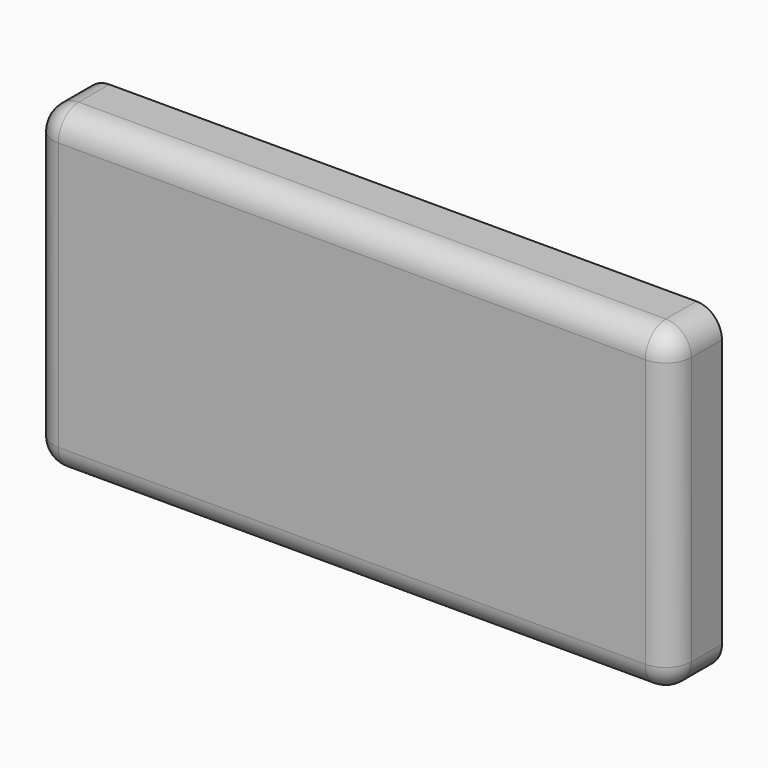
from build123d import *

# Parameters (mm, degrees)
F0_W     = 127
F0_H     = 63.5
F1_DEPTH = 12.7
F2_DEPTH = 12.7
F3_R     = 5.08
F4_T     = -2.54


with BuildPart() as f1:
    # F0 (on Front) → F1 (new body)
    with BuildSketch(Plane.XZ):
        Rectangle(F0_W, F0_H)
    extrude(amount=F1_DEPTH)

    # F0 (on Front) → F2 (join)
    with BuildSketch(Plane.XZ):
        Rectangle(F0_W, F0_H)
    extrude(amount=F2_DEPTH)

    # F3
    f3_edges = [f1.edges().sort_by_distance(p)[0] for p in [
        (-63.5, -12.7, 0),
        (0, -12.7, -31.75),
        (63.5, -12.7, 0),
        (0, -12.7, 31.75),
        (63.5, -6.35, 31.75),
        (63.5, -6.35, -31.75),
        (-63.5, -6.35, -31.75),
        (-63.5, -6.35, 31.75),
    ]]
    fillet(f3_edges, radius=F3_R)

    # F4
    f4_openings = [f1.faces().sort_by_distance(p)[0] for p in [
        (0, 0, 0),
    ]]
    offset(amount=F4_T, openings=f4_openings)


solid = f1.part
